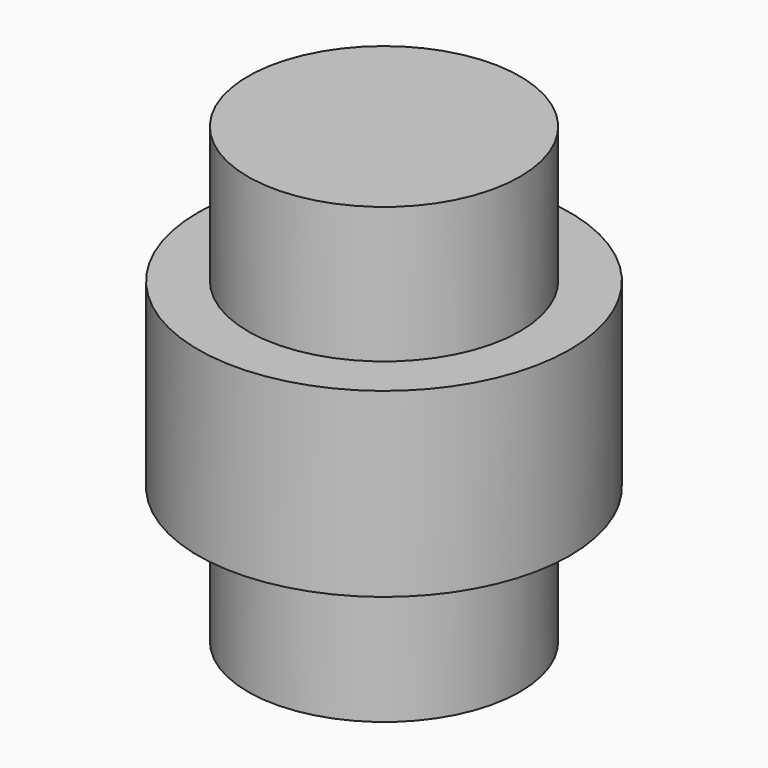
from build123d import *

# Parameters (mm, degrees)
F0_R     = 15
F1_DEPTH = 15
F2_R     = 20.49161
F3_DEPTH = 20
F4_R     = 15
F5_DEPTH = 35


with BuildPart() as f1:
    # F0 (on Top) → F1 (new body)
    with BuildSketch(Plane.XY):
        Circle(F0_R)
    extrude(amount=F1_DEPTH)

    # F2 (on Top) → F3 (join)
    with BuildSketch(Plane.XY):
        Circle(F2_R)
    extrude(amount=-F3_DEPTH)

    # F4 (on Top) → F5 (join)
    with BuildSketch(Plane.XY):
        Circle(F4_R)
    extrude(amount=-F5_DEPTH)


solid = f1.part
